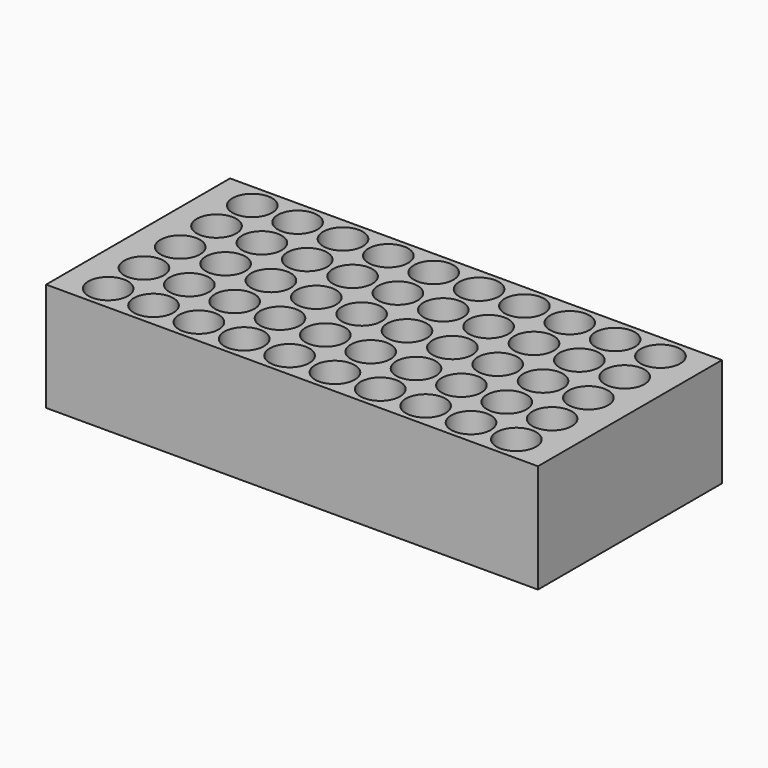
from build123d import *

# Parameters (mm, degrees)
F0_W     = 77
F0_H     = 36
F1_DEPTH = 17
F2_R     = 3.1
F3_DEPTH = 8
F4_R     = 3.1
F5_DEPTH = 11
F6_R     = 3.1
F7_DEPTH = 14


with BuildPart() as f1:
    # F0 (on Top) → F1 (new body)
    with BuildSketch(Plane.XY):
        Rectangle(F0_W, F0_H)
    extrude(amount=F1_DEPTH)

    # F2 (on face) → F3 (cut)
    with BuildSketch(Plane.XY.offset(17)):
        with Locations((-31.9, 14.1)):
            Circle(F2_R)
        with Locations((-24.8, 14.1)):
            Circle(F2_R)
        with Locations((-17.7, 14.1)):
            Circle(F2_R)
        with Locations((-10.6, 14.1)):
            Circle(F2_R)
        with Locations((-3.5, 14.1)):
            Circle(F2_R)
        with Locations((3.6, 14.1)):
            Circle(F2_R)
        with Locations((10.7, 14.1)):
            Circle(F2_R)
        with Locations((17.8, 14.1)):
            Circle(F2_R)
        with Locations((24.9, 14.1)):
            Circle(F2_R)
        with Locations((32, 14.1)):
            Circle(F2_R)
        with Locations((-31.9, -14.1)):
            Circle(F2_R)
        with Locations((-24.8, -14.1)):
            Circle(F2_R)
        with Locations((-17.7, -14.1)):
            Circle(F2_R)
        with Locations((-10.6, -14.1)):
            Circle(F2_R)
        with Locations((-3.5, -14.1)):
            Circle(F2_R)
        with Locations((3.6, -14.1)):
            Circle(F2_R)
        with Locations((10.7, -14.1)):
            Circle(F2_R)
        with Locations((17.8, -14.1)):
            Circle(F2_R)
        with Locations((24.9, -14.1)):
            Circle(F2_R)
        with Locations((32, -14.1)):
            Circle(F2_R)
    extrude(amount=-F3_DEPTH, mode=Mode.SUBTRACT)

    # F4 (on face) → F5 (cut)
    with BuildSketch(Plane.XY.offset(17)):
        with Locations((-31.9, 7.1)):
            Circle(F4_R)
        with Locations((-24.8, 7.1)):
            Circle(F4_R)
        with Locations((-17.7, 7.1)):
            Circle(F4_R)
        with Locations((-10.6, 7.1)):
            Circle(F4_R)
        with Locations((-3.5, 7.1)):
            Circle(F4_R)
        with Locations((3.6, 7.1)):
            Circle(F4_R)
        with Locations((10.7, 7.1)):
            Circle(F4_R)
        with Locations((17.8, 7.1)):
            Circle(F4_R)
        with Locations((24.9, 7.1)):
            Circle(F4_R)
        with Locations((32, 7.1)):
            Circle(F4_R)
        with Locations((-31.9, -7.1)):
            Circle(F4_R)
        with Locations((-24.8, -7.1)):
            Circle(F4_R)
        with Locations((-17.7, -7.1)):
            Circle(F4_R)
        with Locations((-10.6, -7.1)):
            Circle(F4_R)
        with Locations((-3.5, -7.1)):
            Circle(F4_R)
        with Locations((3.6, -7.1)):
            Circle(F4_R)
        with Locations((10.7, -7.1)):
            Circle(F4_R)
        with Locations((17.8, -7.1)):
            Circle(F4_R)
        with Locations((24.9, -7.1)):
            Circle(F4_R)
        with Locations((32, -7.1)):
            Circle(F4_R)
    extrude(amount=-F5_DEPTH, mode=Mode.SUBTRACT)

    # F6 (on face) → F7 (cut)
    with BuildSketch(Plane.XY.offset(17)):
        with Locations((-31.9, 0)):
            Circle(F6_R)
        with Locations((-24.8, 0)):
            Circle(F6_R)
        with Locations((-17.7, 0)):
            Circle(F6_R)
        with Locations((-10.6, 0)):
            Circle(F6_R)
        with Locations((-3.5, 0)):
            Circle(F6_R)
        with Locations((3.6, 0)):
            Circle(F6_R)
        with Locations((10.7, 0)):
            Circle(F6_R)
        with Locations((17.8, 0)):
            Circle(F6_R)
        with Locations((24.9, 0)):
            Circle(F6_R)
        with Locations((32, 0)):
            Circle(F6_R)
    extrude(amount=-F7_DEPTH, mode=Mode.SUBTRACT)


solid = f1.part
